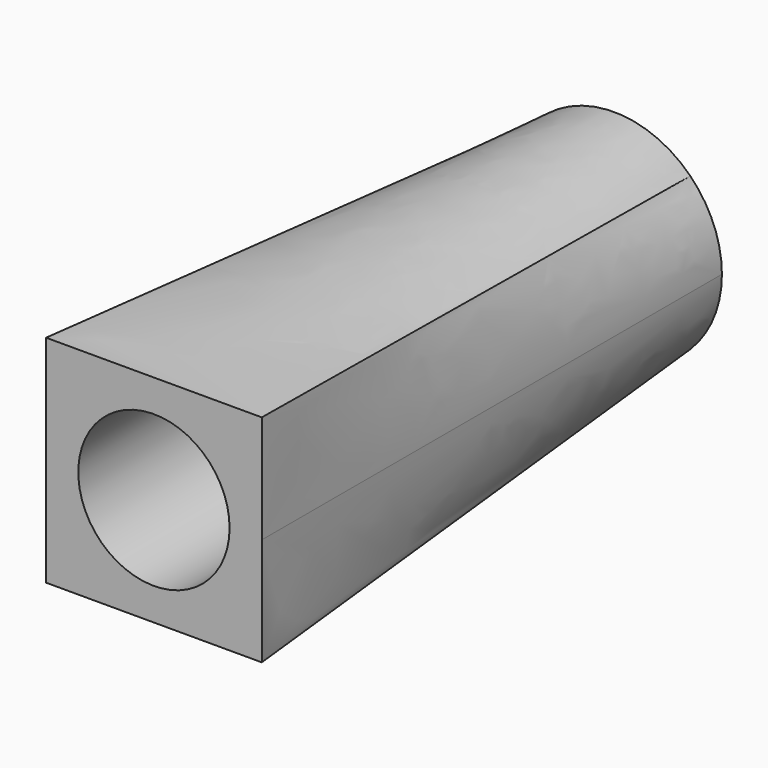
from build123d import *

# Parameters (mm, degrees)
F2_W     = 30
F2_H     = 30
F0_R     = 15
F4_R     = 10.522332
F5_DEPTH = 80.001


with BuildPart() as f3:
    # F2 (on offset) → F3 section 0
    with BuildSketch(Plane.XZ.offset(80)):
        Rectangle(F2_W, F2_H)
    # F0 (on Front) → F3 section 1
    with BuildSketch(Plane.XZ):
        Circle(F0_R)
    loft()

    # F4 (on offset) → F5 (cut, through all)
    with BuildSketch(Plane.XZ.offset(80)):
        Circle(F4_R)
    extrude(amount=-F5_DEPTH, mode=Mode.SUBTRACT)


solid = f3.part
